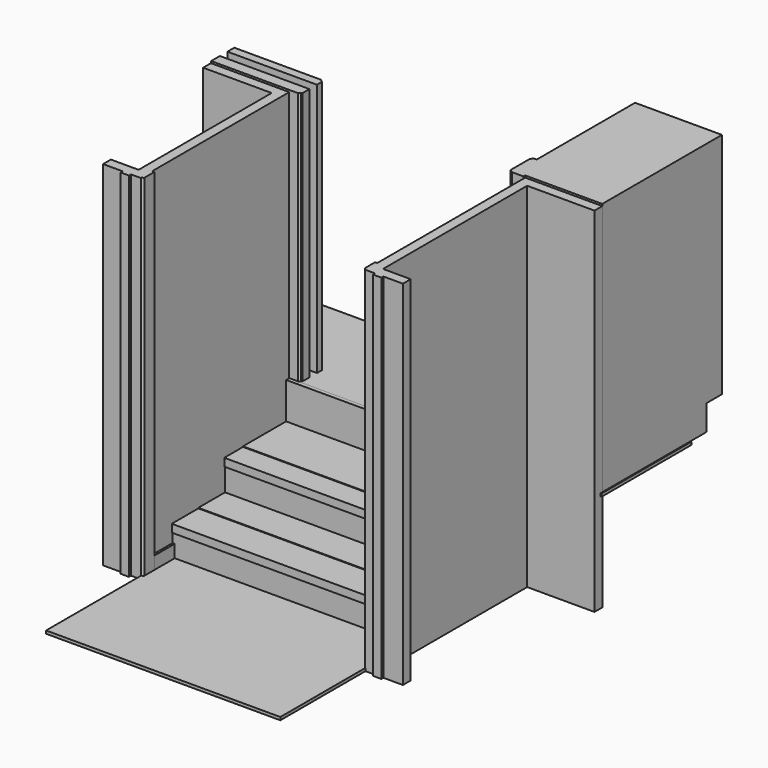
from build123d import *

# Parameters (mm, degrees)
F0_W      = 20
F0_H      = 114
F1_DEPTH  = 600
F2_DEPTH  = 600
F0_W_2    = 577
F0_H_2    = 15
F3_DEPTH  = 1000
F5_DEPTH  = 1300
F4_W      = 415
F4_H      = 430
F4_H_2    = 100
F7_DEPTH  = 1170
F10_DEPTH = 1810
F9_W      = 11
F9_H      = 355
F11_DEPTH = 80
F9_H_2    = 295
F12_W     = 20
F12_H     = 118
F13_DEPTH = 1200
F12_H_2   = 114


with BuildPart() as f1:
    # F0 (on Right) → F1 (new body, symmetric)
    with BuildSketch(Plane.YZ):
        Polygon((20, 0), (0, 0), (0, -187), (20, -187), (20, -15), align=None)
        Polygon((20, -187), (0, -187), (-276, -187), (-276, -230), (-272, -230), (-252, -230), (20, -230), align=None)
        Polygon((-252, -391), (-252, -230), (-272, -230), (-272, -348), (-272, -391), align=None)
        Polygon((-272, -391), (-272, -348), (-562, -348), (-562, -391), (-557, -391), (-537, -391), align=None)
        with Locations((-547, -448)):
            Rectangle(F0_W, F0_H)
    extrude(amount=F1_DEPTH, both=True)


with BuildPart() as f2:
    # F0 (on Right) → F2 (new body, symmetric)
    with BuildSketch(Plane.YZ):
        Polygon((-537, -520), (-537, -505), (-557, -505), (-1537, -505), (-1537, -520), align=None)
    extrude(amount=F2_DEPTH, both=True)


with BuildPart() as f3:
    # F0 (on Right) → F3 (new body, symmetric)
    with BuildSketch(Plane.YZ):
        with Locations((308.5, -7.5)):
            Rectangle(F0_W_2, F0_H_2)
    extrude(amount=F3_DEPTH, both=True)


with BuildPart() as f5:
    # F4 (on face) → F5 (new body)
    with BuildSketch(Plane.XY):
        Polygon((-600, 20), (-556, 20), (-546, 28), (-546, 31), (-541, 31), (-541, 76), (-1000, 76), (-1000, 20), align=None)
    extrude(amount=F5_DEPTH)


with BuildPart() as f5b:
    # F4 (on face) → F5, piece 2 (new body)
    with BuildSketch(Plane.XY):
        Polygon((-1000, 168), (-1000, 124), (-541, 124), (-541, 157), (-546, 157), (-546, 160), (-556, 168), (-600, 168), align=None)
    extrude(amount=F5_DEPTH)


with BuildPart() as f5c:
    # F4 (on face) → F5, piece 3 (new body)
    with BuildSketch(Plane.XY):
        Polygon((530, 31), (600, 31), (995, 31), (995, 167), (580, 167), (540, 167), (530, 164), (530, 156), (525, 156), (525, 31), align=None)
        with Locations((787.5, 382)):
            Rectangle(F4_W, F4_H)
        with Locations((787.5, 647)):
            Rectangle(F4_W, F4_H_2)
        Polygon((540, 20), (600, 20), (600, 31), (530, 31), (530, 28), align=None)
    extrude(amount=F5_DEPTH)

    # F6 (on face) → F7 (join)
    with BuildSketch(Plane.XY.offset(1300)):
        Polygon((550, 797), (550, 167), (580, 167), (580, 697), (995, 697), (995, 797), align=None)
    extrude(amount=-F7_DEPTH)


with BuildPart() as f10:
    # F9 (on offset) → F10 (new body)
    with BuildSketch(Plane(origin=(0, 0, -520), x_dir=(1, 0, 0), z_dir=(0, 0, -1))):
        Polygon((600, -31), (995, -31), (995, 19), (650, 19), (650, 942), (792, 942), (792, 992), (692, 992), (692, 1005), (649, 1005), (649, 992), (599, 992), (599, 989), (589, 982), (589, 917), (600, 917), (600, 562), align=None)
    extrude(amount=-F10_DEPTH)


with BuildPart() as f10b:
    # F9 (on offset) → F10, piece 2 (new body)
    with BuildSketch(Plane(origin=(0, 0, -520), x_dir=(1, 0, 0), z_dir=(0, 0, -1))):
        Polygon((-1001, 30), (-1001, -20), (-600, -20), (-600, 562), (-600, 857), (-589, 857), (-589, 922), (-599, 929), (-599, 932), (-649, 932), (-649, 945), (-692, 945), (-692, 932), (-792, 932), (-792, 882), (-650, 882), (-650, 30), align=None)
    extrude(amount=-F10_DEPTH)


with BuildPart() as f11:
    # F9 (on offset) → F11 (new body)
    with BuildSketch(Plane(origin=(0, 0, -520), x_dir=(1, 0, 0), z_dir=(0, 0, -1))):
        with Locations((594.5, 739.5)):
            Rectangle(F9_W, F9_H)
    extrude(amount=-F11_DEPTH)


with BuildPart() as f11b:
    # F9 (on offset) → F11, piece 2 (new body)
    with BuildSketch(Plane(origin=(0, 0, -520), x_dir=(1, 0, 0), z_dir=(0, 0, -1))):
        with Locations((-594.5, 709.5)):
            Rectangle(F9_W, F9_H_2)
    extrude(amount=-F11_DEPTH)


with BuildPart() as f13:
    # F12 (on face) → F13 (new body)
    with BuildSketch(Plane.YZ.offset(-600)):
        Polygon((-371, -230), (-276, -230), (-276, -190), (-396, -190), (-396, -230), (-391, -230), align=None)
        with Locations((-381, -289)):
            Rectangle(F12_W, F12_H)
    extrude(amount=F13_DEPTH)


with BuildPart() as f13b:
    # F12 (on face) → F13, piece 2 (new body)
    with BuildSketch(Plane.YZ.offset(-600)):
        Polygon((-707, -391), (-562, -391), (-562, -351), (-732, -351), (-732, -391), (-727, -391), align=None)
        with Locations((-717, -448)):
            Rectangle(F12_W, F12_H_2)
    extrude(amount=F13_DEPTH)

    # F14: cut F11b, F11
    add(f11b.part, mode=Mode.SUBTRACT)
    add(f11.part, mode=Mode.SUBTRACT)


solid = Compound([f1.part, f2.part, f3.part, f5.part, f5b.part, f5c.part, f10.part, f10b.part, f11.part, f11b.part, f13.part, f13b.part])
